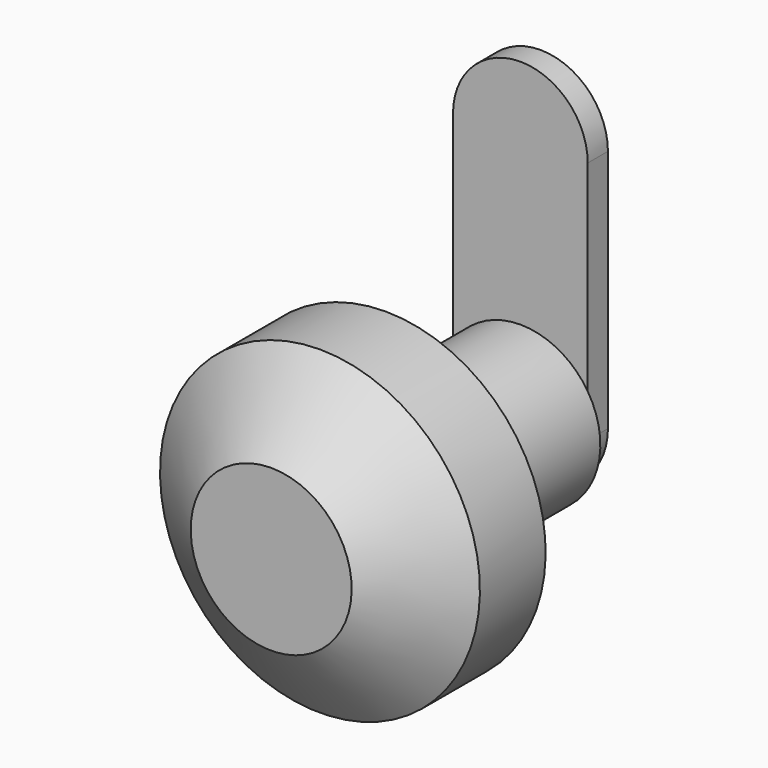
from build123d import *

# Parameters (mm, degrees)
F3_DEPTH = 3


with BuildPart() as f1:
    # F0 (on Right) → F1 (revolve)
    with BuildSketch(Plane.YZ):
        Polygon((-18.5, 9.559073), (-18.5, 0), (18.5, 0), (18.5, 9.5), (-1.5, 9.5), (-1.5, 19), (-11.25722, 19), align=None)
    revolve(axis=Axis((0, -2.898404, 0), (0, 1, 0)))

    # F2 (on face) → F3 (join)
    with BuildSketch(Plane(origin=(0, 18.5, 0), x_dir=(-1, 0, 0), z_dir=(0, 1, 0))):
        with BuildLine():
            ThreePointArc((8, 29), (0, 37), (-8, 29))
            Line((-8, 29), (-8, 5.123475))
            ThreePointArc((-8, 5.123475), (0, 9.5), (8, 5.123475))
            Line((8, 5.123475), (8, 29))
        make_face()
        with BuildLine():
            ThreePointArc((8, 5.123475), (0, 9.5), (-8, 5.123475))
            Line((-8, 5.123475), (-8, 0))
            ThreePointArc((-8, 0), (0, -8), (8, 0))
            Line((8, 0), (8, 5.123475))
        make_face()
    extrude(amount=F3_DEPTH)


solid = f1.part
